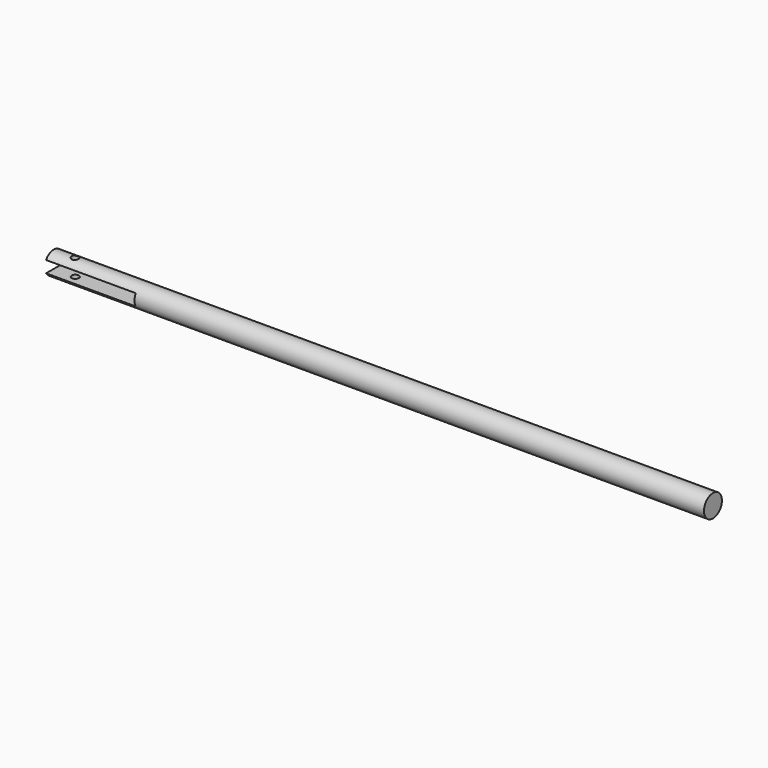
from build123d import *

# Parameters (mm, degrees)
F0_R          = 12.5
F1_DEPTH      = 735
F2_R          = 4
F3_DEPTH      = 12.5
F3_DEPTH_BACK = 12.5
F4_W          = 100
F4_H          = 13
F5_DEPTH      = 25.4
F5_DEPTH_BACK = 25.4


with BuildPart() as f1:
    # F0 (on Right) → F1 (new body)
    with BuildSketch(Plane.YZ):
        Circle(F0_R)
    extrude(amount=F1_DEPTH)

    # F2 (on Top) → F3 (cut, two sides)
    with BuildSketch(Plane.XY) as f3_sk:
        with Locations((24, 0)):
            Circle(F2_R)
    extrude(amount=-F3_DEPTH, mode=Mode.SUBTRACT)
    extrude(f3_sk.sketch, amount=F3_DEPTH_BACK, mode=Mode.SUBTRACT)

    # F4 (on Front) → F5 (cut, two sides)
    with BuildSketch(Plane.XZ) as f5_sk:
        with Locations((50, 0)):
            Rectangle(F4_W, F4_H)
    extrude(amount=-F5_DEPTH, mode=Mode.SUBTRACT)
    extrude(f5_sk.sketch, amount=F5_DEPTH_BACK, mode=Mode.SUBTRACT)


solid = f1.part
